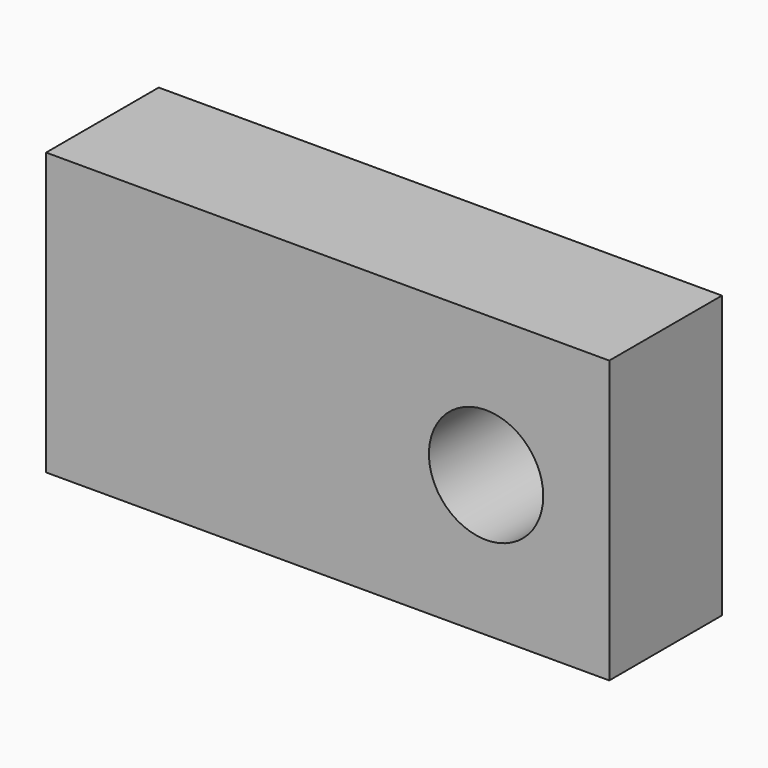
from build123d import *

# Parameters (mm, degrees)
F0_W     = 50.8
F0_H     = 25.4
F0_R     = 5.1562
F1_DEPTH = 6.35


with BuildPart() as f1:
    # F0 (on Front) → F1 (new body, symmetric)
    with BuildSketch(Plane.XZ):
        Rectangle(F0_W, F0_H)
        with Locations((14.2875, 0)):
            Circle(F0_R, mode=Mode.SUBTRACT)
    extrude(amount=F1_DEPTH, both=True)


solid = f1.part
